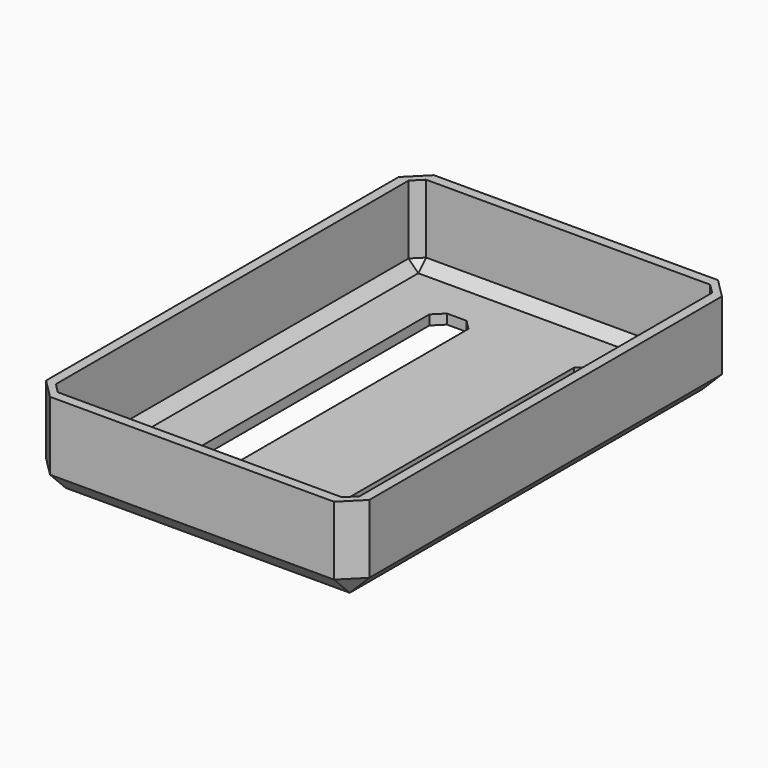
from build123d import *

# Parameters (mm, degrees)
F0_W     = 62
F0_H     = 94
F0_W_2   = 8
F0_H_2   = 74
F1_DEPTH = 2
F2_DEPTH = 18
F3_SIZE  = 2
F4_SIZE  = 4


with BuildPart() as f1:
    # F0 (on Top) → F1 (new body)
    with BuildSketch(Plane.XY):
        Polygon((-33, -44), (-33, -49), (33, -49), (33, 49), (-33, 49), (-33, 44), align=None)
        Rectangle(F0_W, F0_H, mode=Mode.SUBTRACT)
        Rectangle(F0_W, F0_H)
        with Locations((-14.75, 0)):
            Rectangle(F0_W_2, F0_H_2, mode=Mode.SUBTRACT)
        with Locations((14.75, 0)):
            Rectangle(F0_W_2, F0_H_2, mode=Mode.SUBTRACT)
    extrude(amount=F1_DEPTH)

    # F0 (on Top) → F2 (join)
    with BuildSketch(Plane.XY):
        Polygon((-33, -44), (-33, -49), (33, -49), (33, 49), (-33, 49), (-33, 44), align=None)
        Rectangle(F0_W, F0_H, mode=Mode.SUBTRACT)
    extrude(amount=F2_DEPTH)

    # F3
    f3_edges = [f1.edges().sort_by_distance(p)[0] for p in [
        (31, 47, 10),
        (-31, 47, 10),
        (-31, -47, 10),
        (31, -47, 10),
        (-18.75, 37, 1),
        (10.75, 37, 1),
        (-10.75, 37, 1),
        (18.75, 37, 1),
        (-10.75, -37, 1),
        (18.75, -37, 1),
        (10.75, -37, 1),
        (-18.75, -37, 1),
        (-31, 0, 2),
        (0, 47, 2),
        (31, 0, 2),
        (0, -47, 2),
    ]]
    chamfer(f3_edges, length=F3_SIZE)

    # F4
    f4_edges = [f1.edges().sort_by_distance(p)[0] for p in [
        (-33, 49, 9),
        (33, 49, 9),
        (33, -49, 9),
        (-33, -49, 9),
        (-33, 0, 0),
        (33, 0, 0),
        (0, -49, 0),
        (0, 49, 0),
    ]]
    chamfer(f4_edges, length=F4_SIZE)


solid = f1.part
